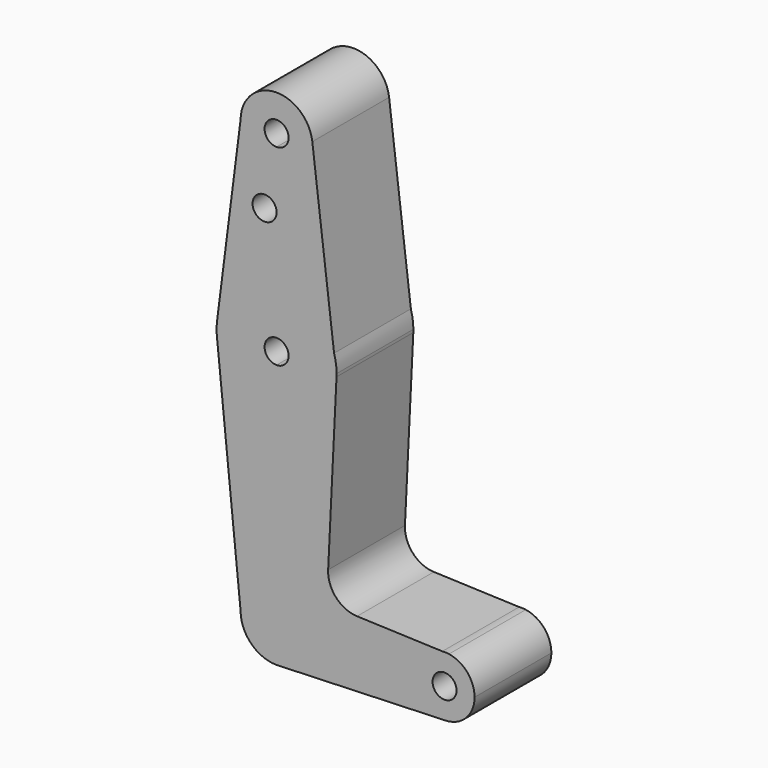
from build123d import *

# Parameters (mm, degrees)
F0_R     = 3.175
F1_DEPTH = 25.4
F2_DEPTH = 25.4


with BuildPart() as f1:
    # F0 (on Front) → F1 (new body)
    with BuildSketch(Plane.XZ):
        with BuildLine():
            ThreePointArc((-9.525, 0), (-6.7351920908, 6.7351920908), (0, 9.525))
            Line((0, 9.525), (0, 9.5314582707))
            Line((0, 9.5314582707), (0, 47.625))
            ThreePointArc((0, 47.625), (-10.4928432071, 51.5871554014), (-15.7479824282, 61.4958357253))
            Line((-15.7479824282, 61.4958357253), (-9.525, 0))
        make_face()
        with BuildLine():
            ThreePointArc((0.3505781546, 9.5185461052), (0.1753187777, 9.5233863896), (0, 9.525))
            ThreePointArc((0, 9.525), (-6.7351920908, 6.7351920908), (-9.525, 0))
            ThreePointArc((-9.525, 0), (-6.7351920908, -6.7351920908), (0, -9.525))
            Line((0, -9.525), (0.6773435479, -9.500885786))
            ThreePointArc((0.6773435479, -9.500885786), (6.9705567315, -6.4912990883), (9.525, 0))
            ThreePointArc((9.525, 0), (6.8580201925, 6.6100819994), (0.3505781546, 9.5185461052))
        make_face()
        with BuildLine():
            Line((0, 47.625), (0, 9.5314582707))
            Line((0, 9.5314582707), (0.3505781546, 9.5185461052))
            ThreePointArc((0.3505781546, 9.5185461052), (6.8580201925, 6.6100819994), (9.525, 0))
            ThreePointArc((9.525, 0), (6.9705567315, -6.4912990883), (0.6773435479, -9.500885786))
            Line((0.6773435479, -9.500885786), (44.7324052746, -7.9324746146))
            ThreePointArc((44.7324052746, -7.9324746146), (36.5243740967, -0.4340049438), (43.8645540256, 7.915880195))
            Line((43.8645540256, 7.915880195), (21.2934395728, 8.7471982937))
            ThreePointArc((21.2934395728, 8.7471982937), (15.7300788358, 11.3149102098), (13.6451638878, 17.0766162795))
            Line((13.6451638878, 17.0766162795), (15.8564129087, 62.7320190962))
            ThreePointArc((15.8564129087, 62.7320190962), (10.9504321411, 52.0063643296), (0, 47.625))
        make_face()
        with BuildLine():
            ThreePointArc((-15.7479824282, 61.4958357253), (-10.4928432071, 51.5871554014), (0, 47.625))
            Line((0, 47.625), (0, 60.325))
            ThreePointArc((0, 60.325), (-3.175, 63.5), (0, 66.675))
            Line((0, 66.675), (0, 79.375))
            ThreePointArc((0, 79.375), (-10.4928432071, 75.4128445986), (-15.7479824282, 65.5041642747))
            ThreePointArc((-15.7479824282, 65.5041642747), (-15.875, 63.5), (-15.7479824282, 61.4958357253))
        make_face()
        with BuildLine():
            Line((0, 60.325), (0, 47.625))
            ThreePointArc((0, 47.625), (10.9504321411, 52.0063643296), (15.8564129087, 62.7320190962))
            Line((15.8564129087, 62.7320190962), (15.2118698801, 68.0403347621))
            ThreePointArc((15.2118698801, 68.0403347621), (9.4851940057, 76.2297572512), (0, 79.375))
            Line((0, 79.375), (0, 66.675))
            ThreePointArc((0, 66.675), (2.2450640303, 65.7450640303), (3.175, 63.5))
            ThreePointArc((3.175, 63.5), (2.2450640303, 61.2549359697), (0, 60.325))
        make_face()
        with BuildLine():
            Line((0.6773435479, -9.500885786), (0, -9.525))
            ThreePointArc((0, -9.525), (0.3388863295, -9.5189695375), (0.6773435479, -9.500885786))
        make_face()
        with BuildLine():
            Line((15.2118698801, 68.0403347621), (15.8564129087, 62.7320190962))
            ThreePointArc((15.8564129087, 62.7320190962), (15.8703525469, 63.1158971008), (15.875, 63.5))
            ThreePointArc((15.875, 63.5), (15.7083426775, 65.7942526729), (15.2118698801, 68.0403347621))
        make_face()
        with BuildLine():
            Line((-9.5244016461, 114.4067627467), (-15.7479824282, 65.5041642747))
            ThreePointArc((-15.7479824282, 65.5041642747), (-10.4928432071, 75.4128445986), (0, 79.375))
            Line((0, 79.375), (0, 95.8727523685))
            Line((0, 95.8727523685), (0, 104.775))
            ThreePointArc((0, 104.775), (-6.7728332389, 107.602660609), (-9.5244016461, 114.4067627467))
        make_face()
        with Locations((-3.175, 95.8727523685)):
            Circle(F0_R, mode=Mode.SUBTRACT)
        with BuildLine():
            ThreePointArc((0, 79.375), (9.4851940057, 76.2297572512), (15.2118698801, 68.0403347621))
            Line((15.2118698801, 68.0403347621), (9.4555527051, 115.4481062848))
            ThreePointArc((9.4555527051, 115.4481062848), (9.5076223241, 114.8751023752), (9.525, 114.3))
            ThreePointArc((9.525, 114.3), (6.7351920908, 107.5648079092), (0, 104.775))
            Line((0, 104.775), (0, 95.8727523685))
            Line((0, 95.8727523685), (0, 79.375))
        make_face()
        with BuildLine():
            ThreePointArc((43.8645540256, 7.915880195), (36.5243740967, -0.4340049438), (44.7324052746, -7.9324746146))
            ThreePointArc((44.7324052746, -7.9324746146), (50.1616327839, -5.5119104847), (52.3875, 0))
            ThreePointArc((52.3875, 0), (50.4608395323, 5.1839863393), (45.6161703959, 7.8513663052))
            Line((45.6161703959, 7.8513663052), (43.8645540256, 7.915880195))
        make_face()
        with Locations((44.45, 0)):
            Circle(F0_R, mode=Mode.SUBTRACT)
        with BuildLine():
            ThreePointArc((9.4555527051, 115.4481062848), (-0.5218085236, 123.8106961293), (-9.5244016461, 114.4067627467))
            ThreePointArc((-9.5244016461, 114.4067627467), (-6.7728332389, 107.602660609), (0, 104.775))
            ThreePointArc((0, 104.775), (6.7351920908, 107.5648079092), (9.525, 114.3))
            ThreePointArc((9.525, 114.3), (9.5076223241, 114.8751023752), (9.4555527051, 115.4481062848))
        make_face()
        with BuildLine():
            ThreePointArc((3.175, 114.3), (2.2450640303, 112.0549359697), (0, 111.125))
            ThreePointArc((0, 111.125), (-2.2450640303, 116.5450640303), (3.175, 114.3))
        make_face(mode=Mode.SUBTRACT)
        with BuildLine():
            ThreePointArc((45.6161703959, 7.8513663052), (44.7421484621, 7.9321217544), (43.8645540256, 7.915880195))
            Line((43.8645540256, 7.915880195), (45.6161703959, 7.8513663052))
        make_face()
    extrude(amount=F1_DEPTH)

    # F0 (on Front) → F2 (join)
    with BuildSketch(Plane.XZ):
        with BuildLine():
            ThreePointArc((-9.525, 0), (-6.7351920908, 6.7351920908), (0, 9.525))
            Line((0, 9.525), (0, 9.5314582707))
            Line((0, 9.5314582707), (0, 47.625))
            ThreePointArc((0, 47.625), (-10.4928432071, 51.5871554014), (-15.7479824282, 61.4958357253))
            Line((-15.7479824282, 61.4958357253), (-9.525, 0))
        make_face()
        with BuildLine():
            ThreePointArc((0.3505781546, 9.5185461052), (0.1753187777, 9.5233863896), (0, 9.525))
            ThreePointArc((0, 9.525), (-6.7351920908, 6.7351920908), (-9.525, 0))
            ThreePointArc((-9.525, 0), (-6.7351920908, -6.7351920908), (0, -9.525))
            Line((0, -9.525), (0.6773435479, -9.500885786))
            ThreePointArc((0.6773435479, -9.500885786), (6.9705567315, -6.4912990883), (9.525, 0))
            ThreePointArc((9.525, 0), (6.8580201925, 6.6100819994), (0.3505781546, 9.5185461052))
        make_face()
        with BuildLine():
            Line((0, 47.625), (0, 9.5314582707))
            Line((0, 9.5314582707), (0.3505781546, 9.5185461052))
            ThreePointArc((0.3505781546, 9.5185461052), (6.8580201925, 6.6100819994), (9.525, 0))
            ThreePointArc((9.525, 0), (6.9705567315, -6.4912990883), (0.6773435479, -9.500885786))
            Line((0.6773435479, -9.500885786), (44.7324052746, -7.9324746146))
            ThreePointArc((44.7324052746, -7.9324746146), (36.5243740967, -0.4340049438), (43.8645540256, 7.915880195))
            Line((43.8645540256, 7.915880195), (21.2934395728, 8.7471982937))
            ThreePointArc((21.2934395728, 8.7471982937), (15.7300788358, 11.3149102098), (13.6451638878, 17.0766162795))
            Line((13.6451638878, 17.0766162795), (15.8564129087, 62.7320190962))
            ThreePointArc((15.8564129087, 62.7320190962), (10.9504321411, 52.0063643296), (0, 47.625))
        make_face()
        with BuildLine():
            ThreePointArc((-15.7479824282, 61.4958357253), (-10.4928432071, 51.5871554014), (0, 47.625))
            Line((0, 47.625), (0, 60.325))
            ThreePointArc((0, 60.325), (-3.175, 63.5), (0, 66.675))
            Line((0, 66.675), (0, 79.375))
            ThreePointArc((0, 79.375), (-10.4928432071, 75.4128445986), (-15.7479824282, 65.5041642747))
            ThreePointArc((-15.7479824282, 65.5041642747), (-15.875, 63.5), (-15.7479824282, 61.4958357253))
        make_face()
        with BuildLine():
            Line((0, 60.325), (0, 47.625))
            ThreePointArc((0, 47.625), (10.9504321411, 52.0063643296), (15.8564129087, 62.7320190962))
            Line((15.8564129087, 62.7320190962), (15.2118698801, 68.0403347621))
            ThreePointArc((15.2118698801, 68.0403347621), (9.4851940057, 76.2297572512), (0, 79.375))
            Line((0, 79.375), (0, 66.675))
            ThreePointArc((0, 66.675), (2.2450640303, 65.7450640303), (3.175, 63.5))
            ThreePointArc((3.175, 63.5), (2.2450640303, 61.2549359697), (0, 60.325))
        make_face()
        with BuildLine():
            Line((0.6773435479, -9.500885786), (0, -9.525))
            ThreePointArc((0, -9.525), (0.3388863295, -9.5189695375), (0.6773435479, -9.500885786))
        make_face()
        with BuildLine():
            Line((15.2118698801, 68.0403347621), (15.8564129087, 62.7320190962))
            ThreePointArc((15.8564129087, 62.7320190962), (15.8703525469, 63.1158971008), (15.875, 63.5))
            ThreePointArc((15.875, 63.5), (15.7083426775, 65.7942526729), (15.2118698801, 68.0403347621))
        make_face()
        with BuildLine():
            Line((-9.5244016461, 114.4067627467), (-15.7479824282, 65.5041642747))
            ThreePointArc((-15.7479824282, 65.5041642747), (-10.4928432071, 75.4128445986), (0, 79.375))
            Line((0, 79.375), (0, 95.8727523685))
            Line((0, 95.8727523685), (0, 104.775))
            ThreePointArc((0, 104.775), (-6.7728332389, 107.602660609), (-9.5244016461, 114.4067627467))
        make_face()
        with Locations((-3.175, 95.8727523685)):
            Circle(F0_R, mode=Mode.SUBTRACT)
        with BuildLine():
            ThreePointArc((0, 79.375), (9.4851940057, 76.2297572512), (15.2118698801, 68.0403347621))
            Line((15.2118698801, 68.0403347621), (9.4555527051, 115.4481062848))
            ThreePointArc((9.4555527051, 115.4481062848), (9.5076223241, 114.8751023752), (9.525, 114.3))
            ThreePointArc((9.525, 114.3), (6.7351920908, 107.5648079092), (0, 104.775))
            Line((0, 104.775), (0, 95.8727523685))
            Line((0, 95.8727523685), (0, 79.375))
        make_face()
        with BuildLine():
            ThreePointArc((43.8645540256, 7.915880195), (36.5243740967, -0.4340049438), (44.7324052746, -7.9324746146))
            ThreePointArc((44.7324052746, -7.9324746146), (50.1616327839, -5.5119104847), (52.3875, 0))
            ThreePointArc((52.3875, 0), (50.4608395323, 5.1839863393), (45.6161703959, 7.8513663052))
            Line((45.6161703959, 7.8513663052), (43.8645540256, 7.915880195))
        make_face()
        with Locations((44.45, 0)):
            Circle(F0_R, mode=Mode.SUBTRACT)
        with BuildLine():
            ThreePointArc((9.4555527051, 115.4481062848), (-0.5218085236, 123.8106961293), (-9.5244016461, 114.4067627467))
            ThreePointArc((-9.5244016461, 114.4067627467), (-6.7728332389, 107.602660609), (0, 104.775))
            ThreePointArc((0, 104.775), (6.7351920908, 107.5648079092), (9.525, 114.3))
            ThreePointArc((9.525, 114.3), (9.5076223241, 114.8751023752), (9.4555527051, 115.4481062848))
        make_face()
        with BuildLine():
            ThreePointArc((3.175, 114.3), (2.2450640303, 112.0549359697), (0, 111.125))
            ThreePointArc((0, 111.125), (-2.2450640303, 116.5450640303), (3.175, 114.3))
        make_face(mode=Mode.SUBTRACT)
        with BuildLine():
            ThreePointArc((45.6161703959, 7.8513663052), (44.7421484621, 7.9321217544), (43.8645540256, 7.915880195))
            Line((43.8645540256, 7.915880195), (45.6161703959, 7.8513663052))
        make_face()
    extrude(amount=F2_DEPTH)


solid = f1.part
